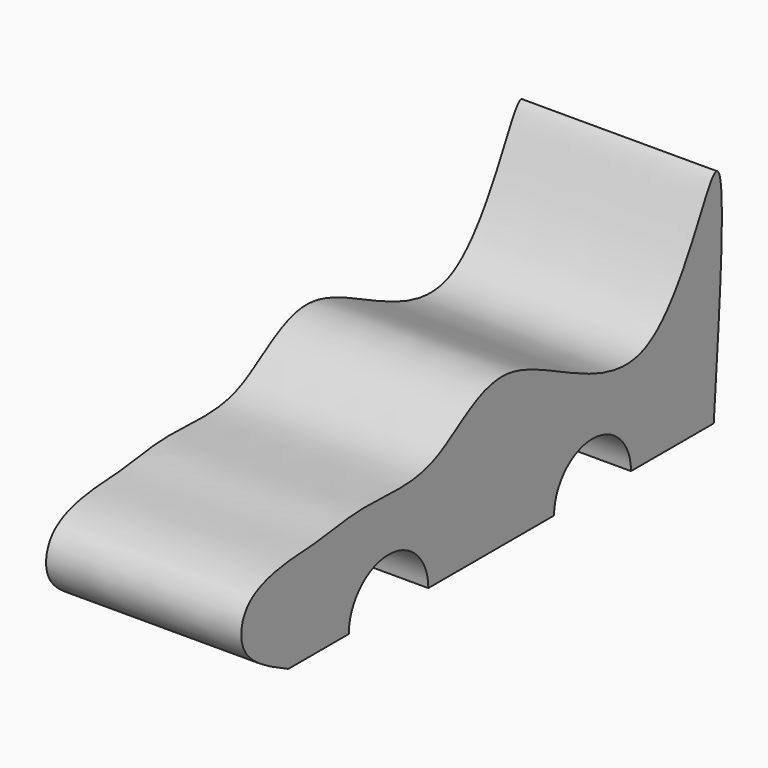
from build123d import *

# Parameters (mm, degrees)
F1_DEPTH = 25.4


with BuildPart() as f1:
    # F0 (on Right) → F1 (new body)
    with BuildSketch(Plane.YZ):
        with BuildLine():
            add(Edge.make_bspline(
                [(0, 0), (-3.061998712, 1.4777757019), (-8.4242026783, 4.0656718688), (-7.3517284911, 11.1126025142), (0.2007005122, 12.5328817894), (4.9693253424, 12.5124365942), (12.5034589838, 14.0620124434), (24.338433216, 12.0370762574), (34.9743427151, 25.1192890161), (59.6828745052, 2.5319699905), (72.3624964728, 42.1575636421), (70.3222966996, 14.9352669755), (69.2029595375, 0)],
                knots=[0, 0, 0, 0, 0.0866825856, 0.1517994447, 0.2280341488, 0.2928668567, 0.3723610509, 0.4699927276, 0.5751030146, 0.7156377614, 0.8439872284, 1, 1, 1, 1], degree=3))
            Line((0, 0), (9.834008101, 0))
            ThreePointArc((9.834008101, 0), (16.3053572178, 6.4713491168), (22.7767063346, 0))
            Line((22.7767063346, 0), (43.2252783879, 0))
            ThreePointArc((43.2252783879, 0), (49.4848564267, 6.2595780388), (55.7444344655, 0))
            Line((55.7444344655, 0), (69.2029595375, 0))
        make_face()
    extrude(amount=F1_DEPTH)


solid = f1.part
